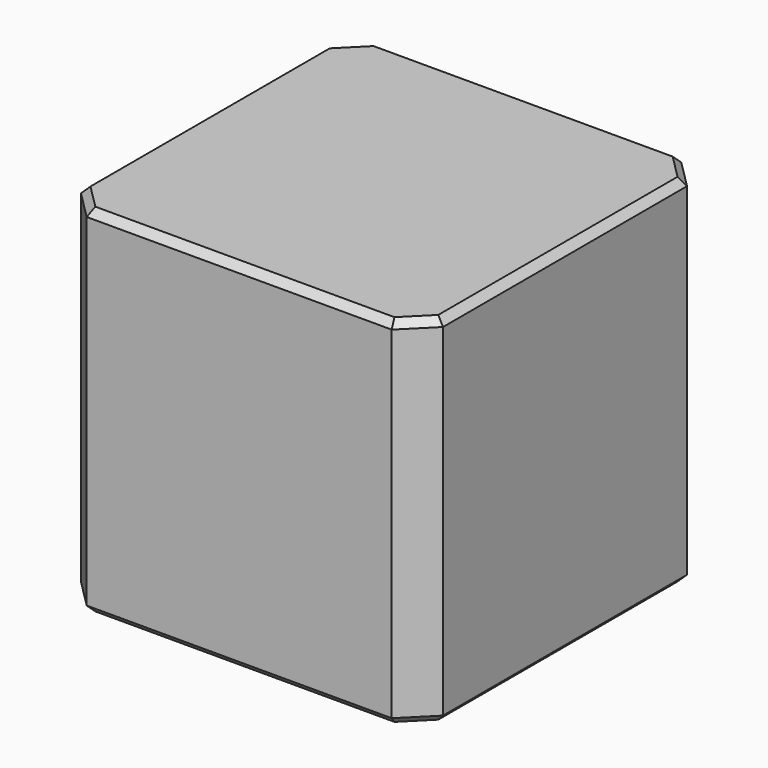
from build123d import *

# Parameters (mm, degrees)
SKETCH212_W     = 2.54
SKETCH212_H     = 2.54
PAD083_DEPTH    = 2.5
CHAMFER020_SIZE = 0.2
CHAMFER019_SIZE = 0.05


with BuildPart() as part:
    # Sketch212 → Pad083 (new body)
    with BuildSketch(Plane.XY):
        Rectangle(SKETCH212_W, SKETCH212_H)
    extrude(amount=PAD083_DEPTH)

    # Chamfer020
    chamfer020_edges = [part.edges().sort_by_distance(p)[0] for p in [
        (1.27, -1.27, 1.25),
        (-1.27, -1.27, 1.25),
        (1.27, 1.27, 1.25),
        (-1.27, 1.27, 1.25),
    ]]
    chamfer(chamfer020_edges, length=CHAMFER020_SIZE)

    # Chamfer019
    chamfer019_edges = [part.edges().sort_by_distance(p)[0] for p in [
        (0, -1.27, 2.5),
        (-1.17, -1.17, 2.5),
        (1.17, -1.17, 2.5),
        (-1.27, 0, 2.5),
        (1.27, 0, 2.5),
        (-1.17, 1.17, 2.5),
        (1.17, 1.17, 2.5),
        (0, 1.27, 2.5),
        (0, -1.27, 0),
        (-1.17, -1.17, 0),
        (1.17, -1.17, 0),
        (-1.27, 0, 0),
        (1.27, 0, 0),
        (-1.17, 1.17, 0),
        (1.17, 1.17, 0),
        (0, 1.27, 0),
    ]]
    chamfer(chamfer019_edges, length=CHAMFER019_SIZE)


solid = part.part
